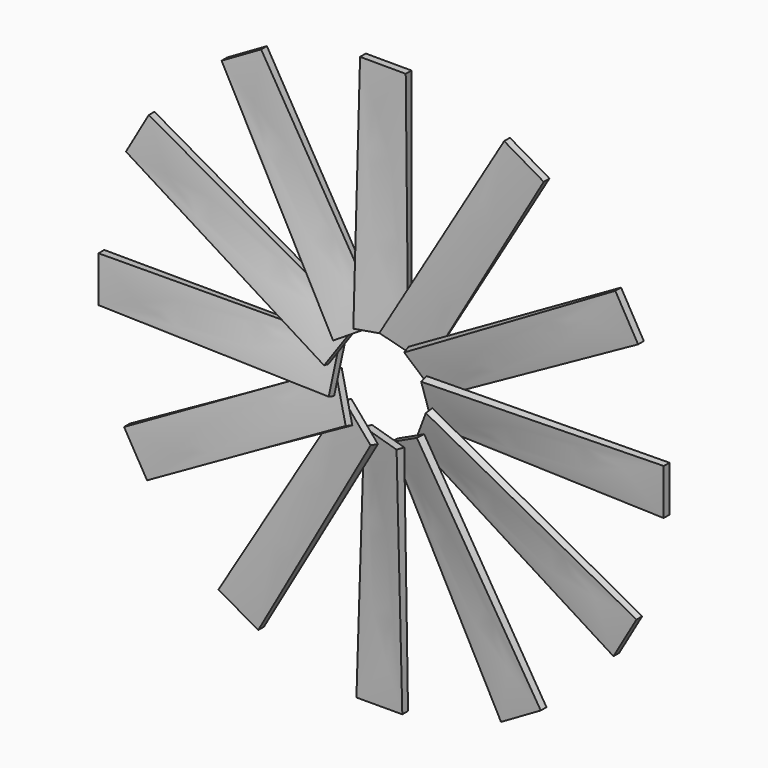
from build123d import *

# Parameters (mm, degrees)
CLONE019_PLACEMENT_ANGLE = 30
CLONE020_PITCH_ANGLE     = 30
CLONE021_PITCH_ANGLE     = 30
CLONE022_PLACEMENT_ANGLE = 120
CLONE023_ROLL_ANGLE      = 180
CLONE023_PITCH_ANGLE     = 60
CLONE023_PLACEMENT_ANGLE = 180


with BuildPart() as helix:
    # Sketch002 → Loft section 0
    with BuildSketch(Plane(origin=(0, -25.4, 45.72), x_dir=(1, 0, 0), z_dir=(0, 0, 1))):
        Polygon((-23.561588, -15.548222), (19.531439, -1.693672), (21.702834, -8.447555), (-21.390192, -22.302105), align=None)
    # Sketch003 → Loft section 1
    with BuildSketch(Plane(origin=(6.35, -25.4, 279.4), x_dir=(0.951057, -0.309017, 0), z_dir=(0, 0, 1))):
        Polygon((-23.561588, -15.548222), (19.531439, -1.693672), (21.702834, -8.447555), (-21.390192, -22.302105), align=None)
    loft()


with BuildPart() as clone_of_helix:
    # Clone019 base: copy of helix
    add(helix.part)


with BuildPart() as clone_of_helix_1:
    # Clone019 placement: moved
    add(clone_of_helix.part.rotate(Axis((0, 0, 0), (0, 1, 0)), CLONE019_PLACEMENT_ANGLE))


with BuildPart() as clone_of_clone_of_helix:
    # Clone020 base: copy of Clone of helix
    add(clone_of_helix_1.part)


with BuildPart() as clone_of_clone_of_helix_1:
    # Clone020 pitch: moved
    add(clone_of_clone_of_helix.part.rotate(Axis((0, 0, 0), (0, 1, 0)), CLONE020_PITCH_ANGLE))


with BuildPart() as clone_of_clone_of_helix_2:
    # Clone020 placement: moved
    add(clone_of_clone_of_helix_1.part)


with BuildPart() as clone_of_clone_of_clone_of_helix:
    # Clone021 base: copy of Clone of Clone of helix
    add(clone_of_clone_of_helix_2.part)


with BuildPart() as clone_of_clone_of_clone_of_helix_1:
    # Clone021 pitch: moved
    add(clone_of_clone_of_clone_of_helix.part.rotate(Axis((0, 0, 0), (0, 1, 0)), CLONE021_PITCH_ANGLE))


with BuildPart() as clone_of_clone_of_clone_of_helix_2:
    # Clone021 placement: moved
    add(clone_of_clone_of_clone_of_helix_1.part)


with BuildPart() as fusion003:
    # Fusion003 base: copy of Clone of helix
    add(clone_of_helix_1.part)

    # Fusion003: union Clone of Clone of Clone of helix, Clone of Clone of helix, helix
    add(clone_of_clone_of_clone_of_helix_2.part)
    add(clone_of_clone_of_helix_2.part)
    add(helix.part)


with BuildPart() as clone_of_fusion003:
    # Clone022 base: copy of Fusion003
    add(fusion003.part)


with BuildPart() as clone_of_fusion003_1:
    # Clone022 placement: moved
    add(clone_of_fusion003.part.rotate(Axis((0, 0, 0), (0, 1, 0)), CLONE022_PLACEMENT_ANGLE))


with BuildPart() as fusion004:
    # Clone023 base: copy of Clone of Fusion003
    add(clone_of_fusion003_1.part)


with BuildPart() as fusion004_1:
    # Clone023 roll: moved
    add(fusion004.part.rotate(Axis((0, 0, 0), (1, 0, 0)), CLONE023_ROLL_ANGLE))


with BuildPart() as fusion004_2:
    # Clone023 pitch: moved
    add(fusion004_1.part.rotate(Axis((0, 0, 0), (0, 1, 0)), CLONE023_PITCH_ANGLE))


with BuildPart() as fusion004_3:
    # Clone023 placement: moved
    add(fusion004_2.part.rotate(Axis((0, 0, 0), (0, 0, 1)), CLONE023_PLACEMENT_ANGLE))

    # Fusion004: union Clone of Fusion003, Fusion003
    add(clone_of_fusion003_1.part)
    add(fusion003.part)


solid = fusion004_3.part
